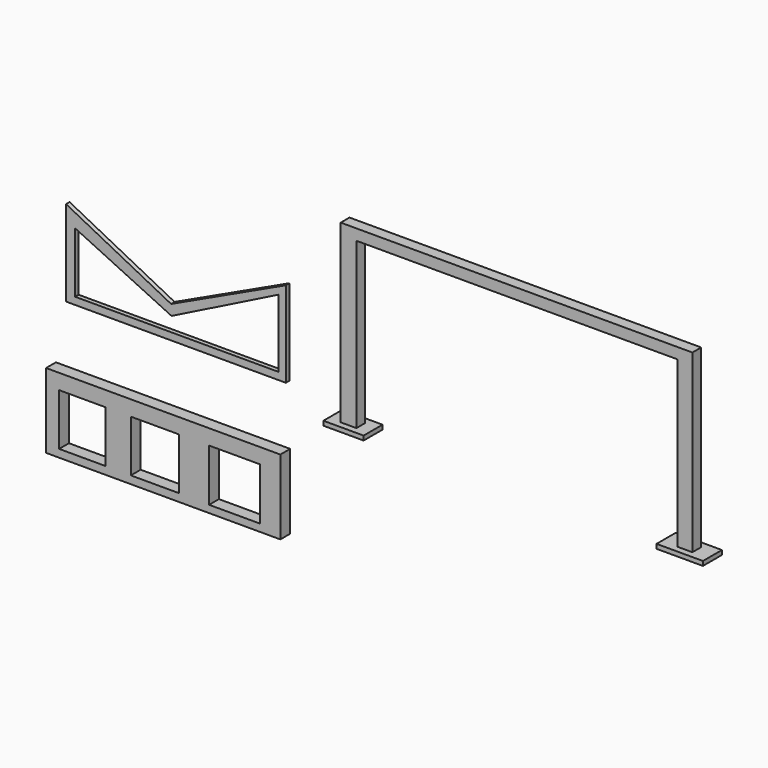
from build123d import *

# Parameters (mm, degrees)
F1_DEPTH  = 25.4
F2_W      = 1353.724718
F2_H      = 431.8
F3_DEPTH  = 71.12
F4_W      = 268.784046
F4_H      = 298.928082
F4_W_2    = 278.832026
F4_W_3    = 293.904052
F4_H_2    = 301.44006
F5_DEPTH  = 132.08
F6_W      = 2032
F6_H      = 1016
F7_DEPTH  = 63.5
F8_W      = 1854.2
F8_H      = 990.6
F9_DEPTH  = 276.86
F10_W     = 232.391596
F10_H     = 136.635338
F11_DEPTH = 25.4
F12_W     = 267.891827
F12_H     = 137.23181
F13_DEPTH = 25.4


with BuildPart() as f1:
    # F0 (on Front) → F1 (new body)
    with BuildSketch(Plane.XZ):
        Polygon((-735.715698, 310.744682), (-735.715698, 249.332691), (-735.715698, -185.464206), (534.284302, -185.464206), (534.284302, 310.744682), (-128.965185, 0), align=None)
        Polygon((-684.129557, -143.704052), (-684.129557, 205.116044), (-341.851855, 42.27026), (-126.508707, -60.183753), (77.379136, 41.760171), (492.524164, 249.332691), (492.524164, -143.704052), (77.379136, -143.704052), (-341.851855, -143.704052), align=None, mode=Mode.SUBTRACT)
    extrude(amount=F1_DEPTH)


with BuildPart() as f3:
    # F2 (on Front) → F3 (new body)
    with BuildSketch(Plane.XZ):
        with Locations((-137.824774, -746.102099)):
            Rectangle(F2_W, F2_H)
    extrude(amount=F3_DEPTH)

    # F4 (on face) → F5 (cut)
    with BuildSketch(Plane.XZ.offset(71.12)):
        with Locations((-605.056822, -767.740756)):
            Rectangle(F4_W, F4_H)
        with Locations((-185.552772, -767.740756)):
            Rectangle(F4_W_2, F4_H)
        with Locations((274.143286, -768.996745)):
            Rectangle(F4_W_3, F4_H_2)
    extrude(amount=-F5_DEPTH, mode=Mode.SUBTRACT)


with BuildPart() as f7:
    # F6 (on Front) → F7 (new body)
    with BuildSketch(Plane.XZ):
        with Locations((1897.610215, 249.972268)):
            Rectangle(F6_W, F6_H)
    extrude(amount=F7_DEPTH)

    # F8 (on face) → F9 (cut)
    with BuildSketch(Plane.XZ.offset(63.5)):
        with Locations((1899.367568, 199.778711)):
            Rectangle(F8_W, F8_H)
    extrude(amount=-F9_DEPTH, mode=Mode.SUBTRACT)

    # F10 (on face) → F11 (join)
    with BuildSketch(Plane(origin=(0, 0, -258.027732), x_dir=(1, 0, 0), z_dir=(0, 0, -1))):
        with Locations((926.938891, 31.75)):
            Rectangle(F10_W, F10_H)
    extrude(amount=F11_DEPTH)

    # F12 (on face) → F13 (join)
    with BuildSketch(Plane(origin=(0, 0, -258.027732), x_dir=(1, 0, 0), z_dir=(0, 0, -1))):
        with Locations((2870.038891, 31.75)):
            Rectangle(F12_W, F12_H)
    extrude(amount=F13_DEPTH)


solid = Compound([f1.part, f3.part, f7.part])
